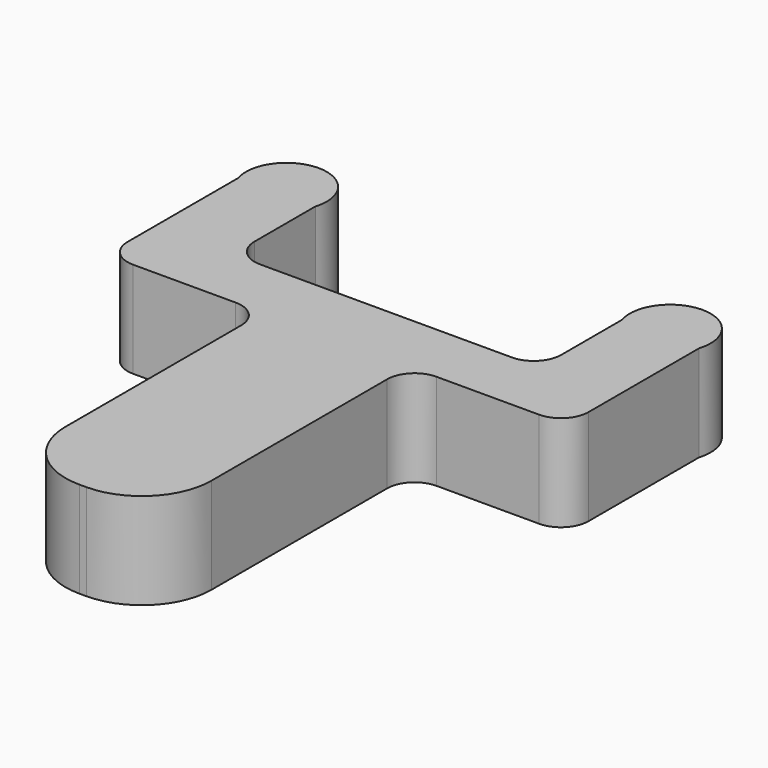
from build123d import *

# Parameters (mm, degrees)
F1_DEPTH = 17.78
F2_R     = 5.08
F3_R     = 12.877415


with BuildPart() as f1:
    # F0 (on Top) → F1 (new body)
    with BuildSketch(Plane.XY):
        with BuildLine():
            Line((-13.512124, -44.939205), (0, -44.939205))
            Line((0, -44.939205), (13.512124, -44.939205))
            Line((13.512124, -44.939205), (13.512124, 13.663948))
            Line((13.512124, 13.663948), (42.661879, 13.663948))
            Line((42.661879, 13.663948), (42.661879, 44.331919))
            ThreePointArc((42.661879, 44.331919), (35.526263, 54.048505), (28.390646, 44.331919))
            Line((28.390646, 44.331919), (28.390646, 25.202392))
            Line((28.390646, 25.202392), (0, 25.202392))
            Line((0, 25.202392), (-28.390646, 25.202392))
            Line((-28.390646, 25.202392), (-28.390646, 44.331919))
            ThreePointArc((-28.390646, 44.331919), (-35.526263, 54.048505), (-42.661879, 44.331919))
            Line((-42.661879, 44.331919), (-42.661879, 13.663948))
            Line((-42.661879, 13.663948), (-13.512124, 13.663948))
            Line((-13.512124, 13.663948), (-13.512124, -44.939205))
        make_face()
    extrude(amount=F1_DEPTH)

    # F2
    f2_edges = [f1.edges().sort_by_distance(p)[0] for p in [
        (-42.661879, 13.663948, 8.89),
        (-13.512124, 13.663948, 8.89),
        (42.661879, 13.663948, 8.89),
        (13.512124, 13.663948, 8.89),
        (28.390646, 25.202392, 8.89),
        (-28.390646, 25.202392, 8.89),
    ]]
    fillet(f2_edges, radius=F2_R)

    # F3
    f3_edges = [f1.edges().sort_by_distance(p)[0] for p in [
        (-13.512124, -44.939205, 8.89),
        (13.512124, -44.939205, 8.89),
    ]]
    fillet(f3_edges, radius=F3_R)


solid = f1.part
